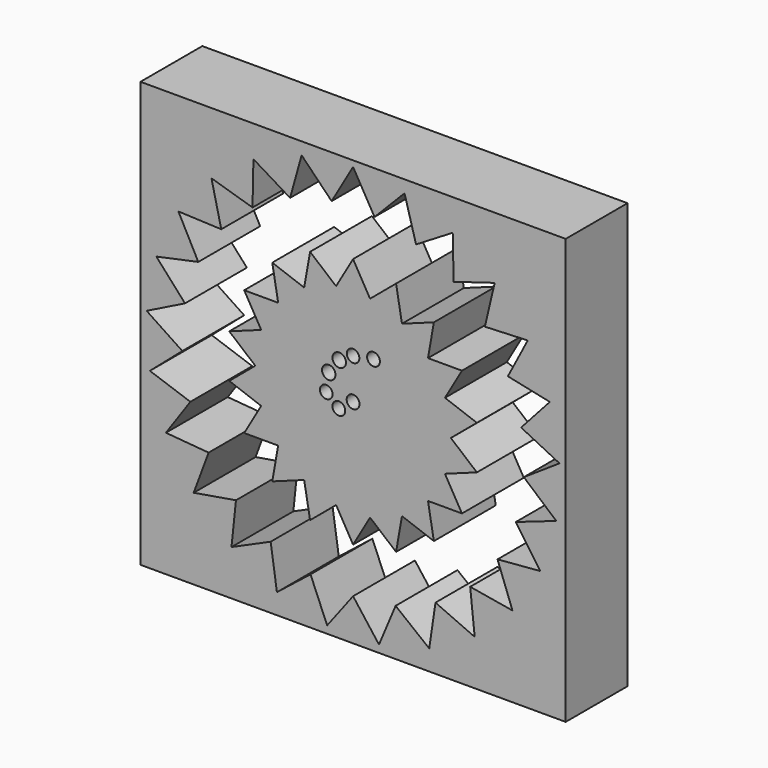
from build123d import *

# Parameters (mm, degrees)
F0_W     = 139.7
F0_H     = 139.7
F1_DEPTH = 25.4
F3_DEPTH = 25.401
F5_DEPTH = 25.4
F6_R     = 2.110793
F6_R_2   = 2.09755
F6_R_3   = 2.065664
F6_R_4   = 2.203374
F6_R_5   = 2.217346
F6_R_6   = 2.065223
F6_R_7   = 2.106406
F7_DEPTH = 25.401


with BuildPart() as f1:
    # F0 (on Front) → F1 (new body)
    with BuildSketch(Plane.XZ):
        Rectangle(F0_W, F0_H)
    extrude(amount=F1_DEPTH)

    # F2 (on Front) → F3 (cut, through all)
    with BuildSketch(Plane.XZ):
        Polygon((7.043891, 55.758138), (0, 67.958515), (-7.043891, 55.758138), (-16.900595, 65.823473), (-20.689079, 52.254649), (-32.739264, 59.552501), (-33.034297, 45.467809), (-46.520805, 49.539625), (-43.303848, 35.824058), (-57.379272, 36.413993), (-50.852459, 23.929351), (-64.632389, 21.000336), (-55.205823, 10.531074), (-67.824414, 4.26715), (-56.090402, -3.528909), (-66.754783, -12.734156), (-53.450615, -17.367157), (-61.490703, -28.935328), (-47.452329, -30.114164), (-52.362936, -43.318388), (-38.472439, -40.968986), (-39.945013, -54.979594), (-27.075184, -49.249577), (-25.017198, -63.186229), (-13.976695, -54.435635), (-8.51746, -67.422642), (0, -56.201302), (8.51746, -67.422642), (13.976695, -54.435635), (25.017198, -63.186229), (27.075184, -49.249577), (39.945013, -54.979594), (38.472439, -40.968986), (52.362936, -43.318388), (47.452329, -30.114164), (61.490703, -28.935328), (53.450615, -17.367157), (66.754783, -12.734156), (56.090402, -3.528909), (67.824414, 4.26715), (55.205823, 10.531074), (64.632389, 21.000336), (50.852459, 23.929351), (57.379272, 36.413993), (43.303848, 35.824058), (46.520805, 49.539625), (33.034297, 45.467809), (32.739264, 59.552501), (20.689079, 52.254649), (16.900595, 65.823473), align=None)
    extrude(amount=F3_DEPTH, mode=Mode.SUBTRACT)


with BuildPart() as f5:
    # F4 (on Front) → F5 (new body)
    with BuildSketch(Plane.XZ):
        Polygon((5.578344, 31.636359), (0, 41.298334), (-5.578344, 31.636359), (-14.124862, 38.807739), (-16.0622, 27.820547), (-26.546057, 31.636359), (-24.608719, 20.649167), (-35.765406, 20.649167), (-30.187062, 10.987192), (-40.670919, 7.17138), (-32.124401, 0), (-40.670919, -7.17138), (-30.187062, -10.987192), (-35.765406, -20.649167), (-24.608719, -20.649167), (-26.546057, -31.636359), (-16.0622, -27.820547), (-14.124862, -38.807739), (-5.578344, -31.636359), (0, -41.298334), (5.578344, -31.636359), (14.124862, -38.807739), (16.0622, -27.820547), (26.546057, -31.636359), (24.608719, -20.649167), (35.765406, -20.649167), (30.187062, -10.987192), (40.670919, -7.17138), (32.124401, 0), (40.670919, 7.17138), (30.187062, 10.987192), (35.765406, 20.649167), (24.608719, 20.649167), (26.546057, 31.636359), (16.0622, 27.820547), (14.124862, 38.807739), align=None)
    extrude(amount=F5_DEPTH)

    # F6 (on face) → F7 (cut, through all)
    with BuildSketch(Plane(origin=(0, 0, 0), x_dir=(-1, 0, 0), z_dir=(0, 1, 0))):
        Circle(F6_R)
        with Locations((4.682168, -3.442771)):
            Circle(F6_R_2)
        with Locations((8.813494, 0)):
            Circle(F6_R_3)
        with Locations((7.987228, 5.921566)):
            Circle(F6_R_4)
        with Locations((4.546127, 10.596058)):
            Circle(F6_R_5)
        with Locations((0, 13.28957)):
            Circle(F6_R_6)
        with Locations((-6.717654, 14.513894)):
            Circle(F6_R_7)
    extrude(amount=-F7_DEPTH, mode=Mode.SUBTRACT)


solid = Compound([f1.part, f5.part])
